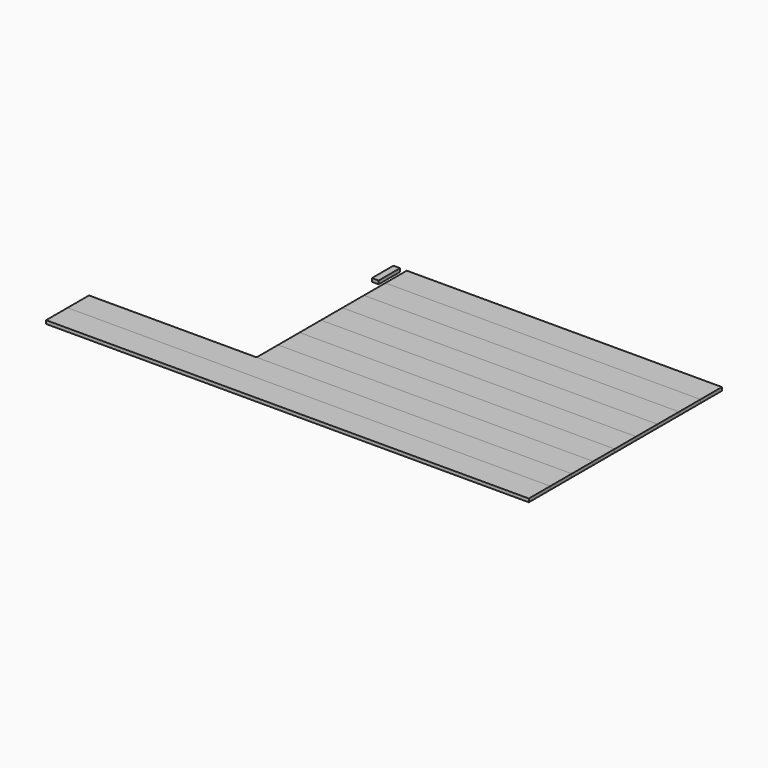
from build123d import *

# Parameters (mm, degrees)
F0_W      = 1193.8
F0_H      = 101.6
F1_DEPTH  = 12.7
F2_DEPTH  = 12.7
F3_DEPTH  = 12.7
F4_DEPTH  = 12.7
F5_DEPTH  = 12.7
F6_DEPTH  = 12.7
F7_DEPTH  = 12.7
F8_DEPTH  = 12.7
F0_W_2    = 1828.8
F9_DEPTH  = 12.7
F0_W_3    = 25.4
F10_DEPTH = 12.7


with BuildPart() as f1:
    # F0 (on Top) → F1 (new body)
    with BuildSketch(Plane.XY):
        with Locations((612.3837251917, 355.6)):
            Rectangle(F0_W, F0_H)
    extrude(amount=F1_DEPTH)


with BuildPart() as f2:
    # F0 (on Top) → F2 (new body)
    with BuildSketch(Plane.XY):
        with Locations((612.3837251917, 254)):
            Rectangle(F0_W, F0_H)
    extrude(amount=F2_DEPTH)


with BuildPart() as f3:
    # F0 (on Top) → F3 (new body)
    with BuildSketch(Plane.XY):
        with Locations((612.3837251917, 152.4)):
            Rectangle(F0_W, F0_H)
    extrude(amount=F3_DEPTH)


with BuildPart() as f4:
    # F0 (on Top) → F4 (new body)
    with BuildSketch(Plane.XY):
        with Locations((612.3837251917, 50.8)):
            Rectangle(F0_W, F0_H)
    extrude(amount=F4_DEPTH)


with BuildPart() as f5:
    # F0 (on Top) → F5 (new body)
    with BuildSketch(Plane.XY):
        with Locations((612.3837251917, -50.8)):
            Rectangle(F0_W, F0_H)
    extrude(amount=F5_DEPTH)


with BuildPart() as f6:
    # F0 (on Top) → F6 (new body)
    with BuildSketch(Plane.XY):
        with Locations((612.3837251917, -152.4)):
            Rectangle(F0_W, F0_H)
    extrude(amount=F6_DEPTH)


with BuildPart() as f7:
    # F0 (on Top) → F7 (new body)
    with BuildSketch(Plane.XY):
        with Locations((612.3837251917, -254)):
            Rectangle(F0_W, F0_H)
    extrude(amount=F7_DEPTH)


with BuildPart() as f8:
    # F0 (on Top) → F8 (new body)
    with BuildSketch(Plane.XY):
        Polygon((-9.9162748083, -304.8), (-35.3162748083, -304.8), (-619.5162748083, -304.8), (-619.5162748083, -406.4), (1209.2837251917, -406.4), (1209.2837251917, -304.8), (15.4837251917, -304.8), align=None)
    extrude(amount=F8_DEPTH)


with BuildPart() as f9:
    # F0 (on Top) → F9 (new body)
    with BuildSketch(Plane.XY):
        with Locations((294.8837251917, -457.2)):
            Rectangle(F0_W_2, F0_H)
    extrude(amount=F9_DEPTH)


with BuildPart() as f10:
    # F0 (on Top) → F10 (new body)
    with BuildSketch(Plane.XY):
        with Locations((-22.6162748083, 355.6)):
            Rectangle(F0_W_3, F0_H)
    extrude(amount=F10_DEPTH)


solid = Compound([f1.part, f2.part, f3.part, f4.part, f5.part, f6.part, f7.part, f8.part, f9.part, f10.part])
